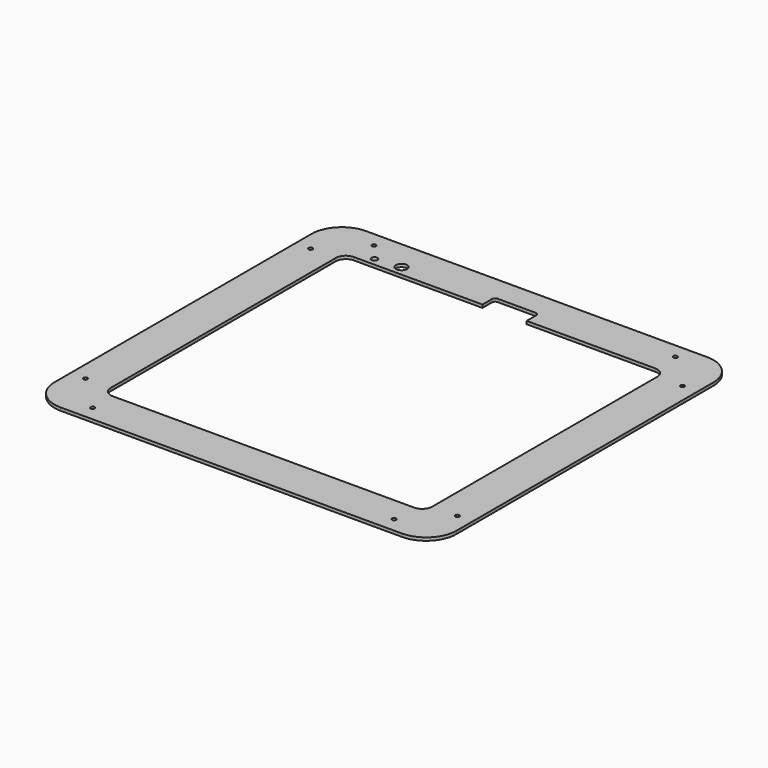
from build123d import *

# Parameters (mm, degrees)
SKETCH_W        = 400
SKETCH_H        = 380
PAD_DEPTH       = 3
SKETCH001_R     = 2
POCKET_DEPTH    = 3.001
POCKET001_DEPTH = 3.001
SKETCH003_R     = 3
SKETCH003_R_2   = 5.5
POCKET002_DEPTH = 3.001
FILLET_R        = 30.16
SKETCH004_W     = 44
SKETCH004_H     = 44
POCKET003_DEPTH = 3.001
FILLET001_R     = 3


with BuildPart() as part:
    # Sketch → Pad (new body)
    with BuildSketch(Plane.XY):
        Rectangle(SKETCH_W, SKETCH_H)
    extrude(amount=PAD_DEPTH)

    # Sketch001 (on Face6 of Pad) → Pocket (cut, through all)
    with BuildSketch(Plane.XY.offset(3)):
        with Locations((-150, 175)):
            Circle(SKETCH001_R)
        with Locations((-185, 140)):
            Circle(SKETCH001_R)
        with Locations((-185, -140)):
            Circle(SKETCH001_R)
        with Locations((-150, -175)):
            Circle(SKETCH001_R)
        with Locations((150, -175)):
            Circle(SKETCH001_R)
        with Locations((185, -140)):
            Circle(SKETCH001_R)
        with Locations((185, 140)):
            Circle(SKETCH001_R)
        with Locations((150, 175)):
            Circle(SKETCH001_R)
    extrude(amount=-POCKET_DEPTH, mode=Mode.SUBTRACT)

    # Sketch002 (on Face5 of Pocket) → Pocket001 (cut, through all)
    with BuildSketch(Plane.XY.offset(3)):
        with BuildLine():
            Line((-150, 150), (150, 150))
            ThreePointArc((160, 140), (157.071068, 147.071068), (150, 150))
            Line((160, 140), (160, -140))
            ThreePointArc((150, -150), (157.071068, -147.071068), (160, -140))
            Line((150, -150), (-150, -150))
            ThreePointArc((-160, -140), (-157.071068, -147.071068), (-150, -150))
            Line((-160, -140), (-160, 140))
            ThreePointArc((-150, 150), (-157.071068, 147.071068), (-160, 140))
        make_face()
    extrude(amount=-POCKET001_DEPTH, mode=Mode.SUBTRACT)

    # Sketch003 (on Face5 of Pocket001) → Pocket002 (cut, through all)
    with BuildSketch(Plane.XY.offset(3)):
        with Locations((-135.5, 157.5)):
            Circle(SKETCH003_R)
        with Locations((-110.5, 160)):
            Circle(SKETCH003_R_2)
    extrude(amount=-POCKET002_DEPTH, mode=Mode.SUBTRACT)

    # Fillet
    fillet_edges = [part.edges().sort_by_distance(p)[0] for p in [
        (-200, -190, 1.5),
        (-200, 190, 1.5),
        (200, 190, 1.5),
        (200, -190, 1.5),
    ]]
    fillet(fillet_edges, radius=FILLET_R)

    # Sketch004 (on Face5 of Fillet) → Pocket003 (cut, through all)
    with BuildSketch(Plane.XY.offset(3)):
        with Locations((0, 143)):
            Rectangle(SKETCH004_W, SKETCH004_H)
    extrude(amount=-POCKET003_DEPTH, mode=Mode.SUBTRACT)

    # Fillet001
    fillet001_edges = [part.edges().sort_by_distance(p)[0] for p in [
        (-22, 165, 1.5),
        (22, 165, 1.5),
    ]]
    fillet(fillet001_edges, radius=FILLET001_R)


solid = part.part
